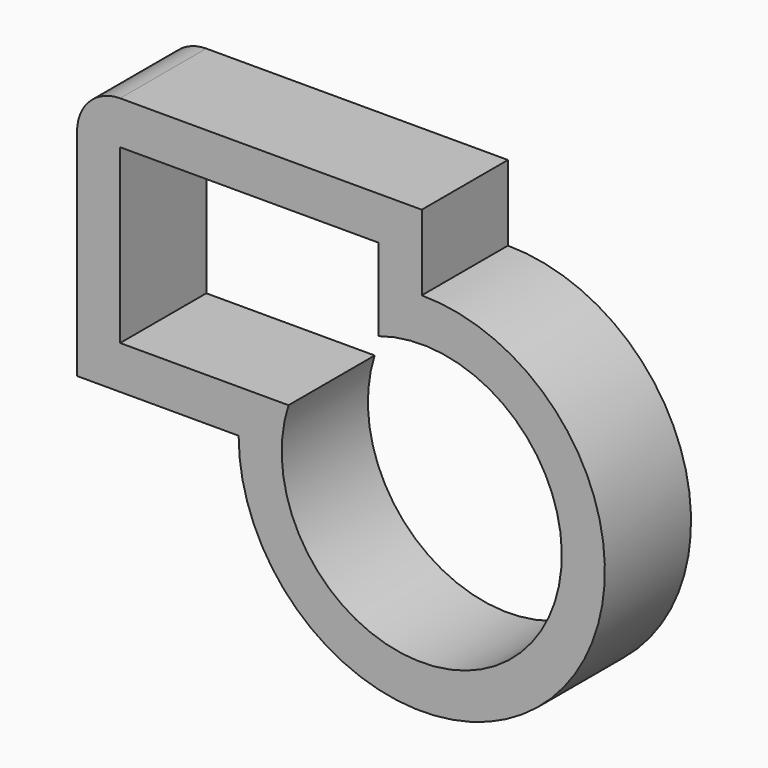
from build123d import *

# Parameters (mm, degrees)
F1_DEPTH = 25


with BuildPart() as f1:
    # F0 (on Front) → F1 (new body)
    with BuildSketch(Plane.XZ):
        with BuildLine():
            Line((19.08228, 36.800632), (-50.91772, 36.800632))
            ThreePointArc((-50.91772, 36.800632), (-57.988788, 33.871699), (-60.91772, 26.800632))
            Line((-60.91772, 26.800632), (-60.91772, -23.199368))
            Line((-60.91772, -23.199368), (-23.41772, -23.199368))
            ThreePointArc((-23.41772, -23.199368), (49.134318, -53.251407), (19.08228, 19.300632))
            Line((19.08228, 19.300632), (19.08228, 36.800632))
        make_face()
        with BuildLine():
            Line((-50.91772, -13.199368), (-50.91772, 26.800632))
            Line((-50.91772, 26.800632), (9.08228, 26.800632))
            Line((9.08228, 26.800632), (9.08228, 7.723924))
            ThreePointArc((9.08228, 7.723924), (42.06325, -46.180339), (-11.841012, -13.199368))
            Line((-11.841012, -13.199368), (-50.91772, -13.199368))
        make_face(mode=Mode.SUBTRACT)
    extrude(amount=F1_DEPTH)


solid = f1.part
